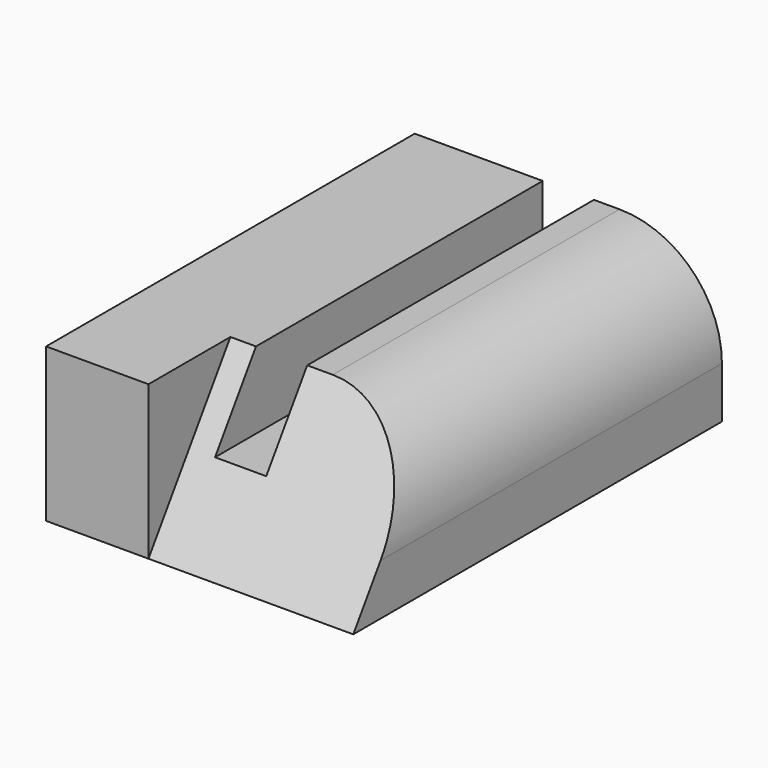
from build123d import *

# Parameters (mm, degrees)
F0_W     = 60
F0_H     = 90
F1_DEPTH = 30
F2_R     = 20
F3_W     = 10
F3_H     = 15
F4_DEPTH = 90.001
F7_DEPTH = 40.001


with BuildPart() as f1:
    # F0 (on Top) → F1 (new body)
    with BuildSketch(Plane.XY):
        with Locations((30, 45)):
            Rectangle(F0_W, F0_H)
    extrude(amount=F1_DEPTH)

    # F2
    f2_edges = [f1.edges().sort_by_distance(p)[0] for p in [
        (60, 45, 30),
    ]]
    fillet(f2_edges, radius=F2_R)

    # F3 (on face) → F4 (cut, through all)
    with BuildSketch(Plane.XZ):
        with Locations((30, 22.5)):
            Rectangle(F3_W, F3_H)
    extrude(amount=-F4_DEPTH, mode=Mode.SUBTRACT)

    # F6 (on offset) → F7 (cut, through all)
    with BuildSketch(Plane(origin=(20, 0, 0), x_dir=(0, -1, 0), z_dir=(-1, 0, 0))):
        Polygon((-20, 30), (0, 0), (0, 30), align=None)
    extrude(amount=-F7_DEPTH, mode=Mode.SUBTRACT)


solid = f1.part
